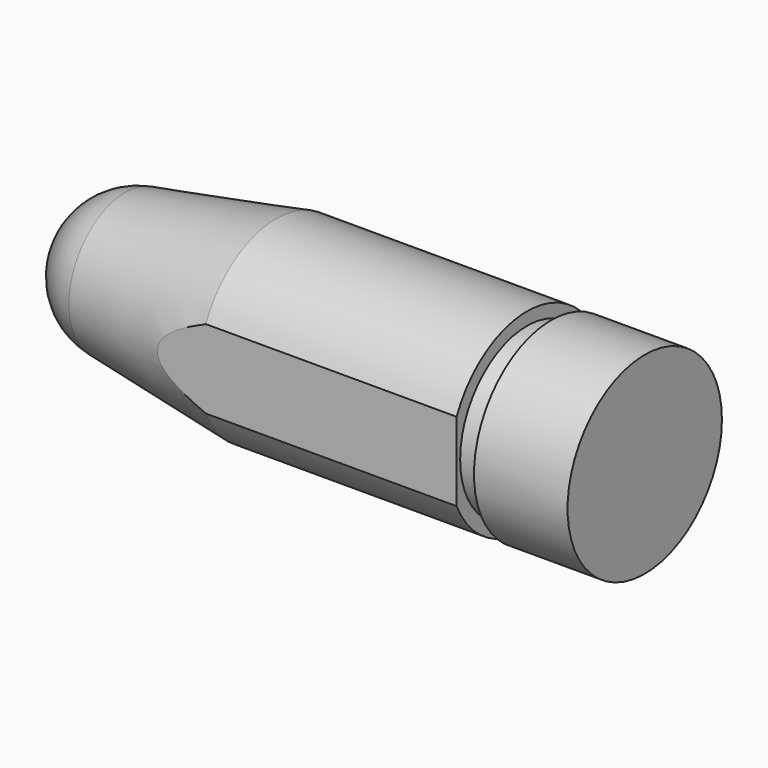
from build123d import *

# Parameters (mm, degrees)
F0_R      = 12.7
F1_DEPTH  = 12.319
F2_R      = 11.0109
F3_DEPTH  = 3.175
F5_DEPTH  = 33.02
F9_DEPTH  = 25.4
F10_DEPTH = 25.4


with BuildPart() as f1:
    # F0 (on Right) → F1 (new body)
    with BuildSketch(Plane.YZ):
        Circle(F0_R)
    extrude(amount=F1_DEPTH)

    # F2 (on face) → F3 (join)
    with BuildSketch(Plane(origin=(0, 0, 0), x_dir=(0, -1, 0), z_dir=(-1, 0, 0))):
        Circle(F2_R)
    extrude(amount=F3_DEPTH)

    # F4 (on face) → F5 (join)
    with BuildSketch(Plane(origin=(-3.175, 0, 0), x_dir=(0, -1, 0), z_dir=(-1, 0, 0))):
        with BuildLine():
            Line((-11.5951, 5.1810863716), (-11.5951, -5.1810863716))
            ThreePointArc((-11.5951, -5.1810863716), (0, -12.7), (11.5951, -5.1810863716))
            Line((11.5951, -5.1810863716), (11.5951, 5.1810863716))
            ThreePointArc((11.5951, 5.1810863716), (0, 12.7), (-11.5951, 5.1810863716))
        make_face()
    extrude(amount=F5_DEPTH)

    # F6 (on Front) → F7 (revolve)
    with BuildSketch(Plane.XZ):
        with BuildLine():
            Line((-36.195, 12.7), (-56.0844132237, 9.2605550421))
            ThreePointArc((-56.0844132237, 9.2605550421), (-61.6723144832, 6.0527812832), (-63.881, 0))
            Line((-63.881, 0), (-36.195, 0))
            Line((-36.195, 0), (-36.195, 12.7))
        make_face()
    revolve(axis=Axis((-50.038, 0, 0), (1, 0, 0)))

    # F8 (on face) → F9 (cut)
    with BuildSketch(Plane.YZ.offset(-36.195)):
        with BuildLine():
            Line((-11.5951, -5.1810863716), (-11.5951, 5.1810863716))
            ThreePointArc((-11.5951, 5.1810863716), (-12.7, 0), (-11.5951, -5.1810863716))
        make_face()
    extrude(amount=-F9_DEPTH, mode=Mode.SUBTRACT)

    # F10 (cut): a face of the model
    f10_faces = [f1.faces().sort_by_distance(p)[0] for p in [
        (-36.195, 12.0387504501, 0),
    ]]
    extrude(f10_faces, amount=-F10_DEPTH, mode=Mode.SUBTRACT)


solid = f1.part
